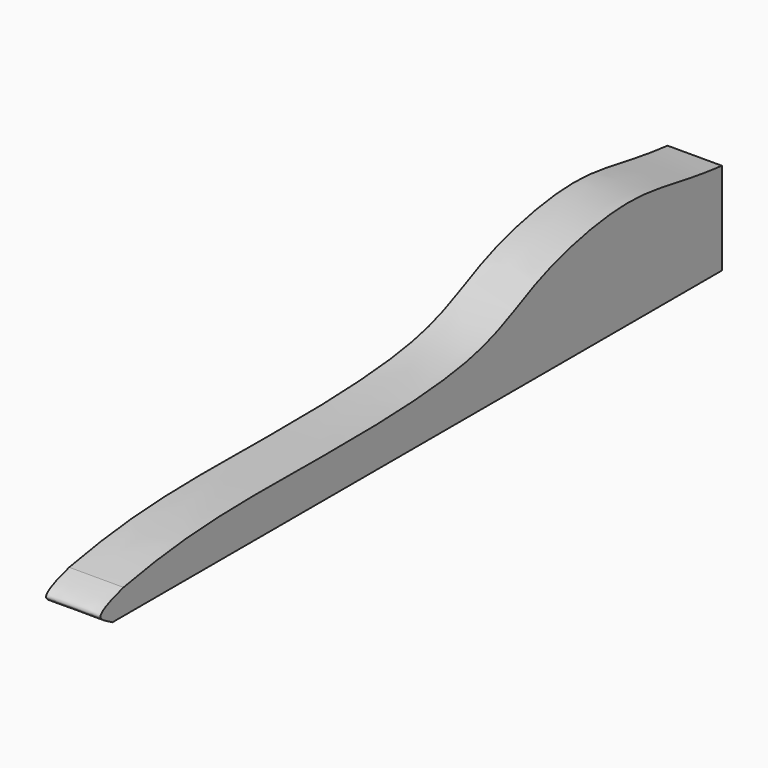
from build123d import *

# Parameters (mm, degrees)
F1_DEPTH = 21.4
F3_R     = 7.9280234873
F4_DEPTH = 34.7


with BuildPart() as f1:
    # F0 (on Right) → F1 (new body)
    with BuildSketch(Plane.YZ):
        with BuildLine():
            add(Edge.make_bspline(
                [(-52.9635548592, 20.3170385212), (-20.1261572079, 26.7376520729), (29.922824922, 25.7177556479), (121.959102946, 25.7806727081), (150.3242926051, 46.0034040471), (199.6366361278, 56.4635976662), (221.1304331635, 48.7640796141), (241.5242940187, 46.7454344034)],
                knots=[0, 0, 0, 0, 0.2479732416, 0.4914567278, 0.6466639154, 0.8219006693, 1, 1, 1, 1], degree=3))
            add(Edge.make_bspline(
                [(-52.9635548592, 20.3170385212), (-56.415777575, 19.4633807478), (-69.4444632926, 15.1292239488), (-61.0179786227, 12.0670054697), (-58.4524683654, 10.4260575026)],
                knots=[0, 0, 0, 0, 0.5654679842, 1, 1, 1, 1], degree=3))
            Line((-58.4524683654, 10.4260575026), (241.5242940187, 10.4260575026))
            Line((241.5242940187, 10.4260575026), (241.5242940187, 46.7454344034))
        make_face()
    extrude(amount=F1_DEPTH)

    # F3 (on offset) → F4 (cut)
    with BuildSketch(Plane.XZ.offset(-246)):
        with Locations((10.6606865302, 28.7737362087)):
            Circle(F3_R)
    extrude(amount=F4_DEPTH, mode=Mode.SUBTRACT)


solid = f1.part
